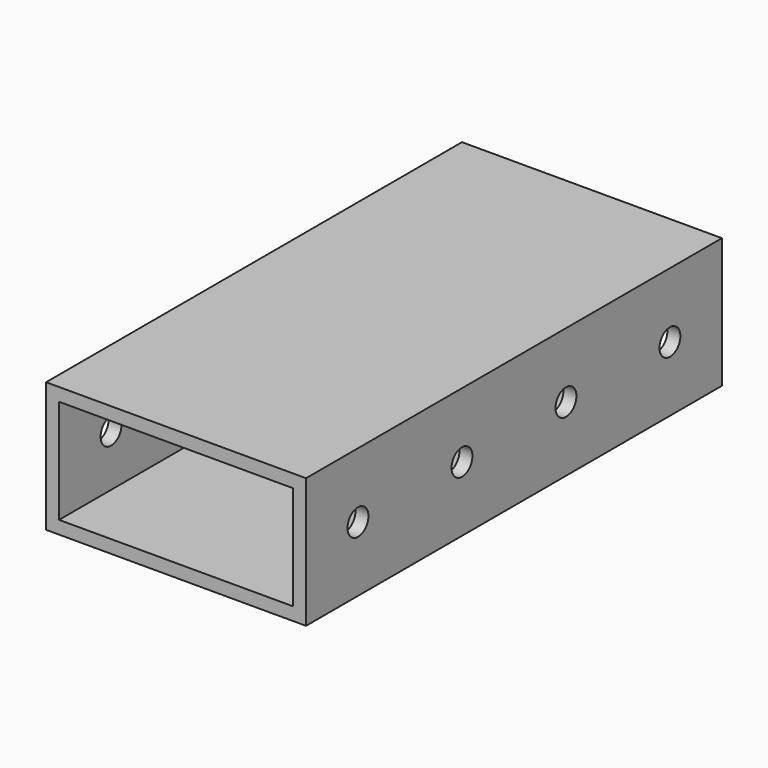
from build123d import *

# Parameters (mm, degrees)
F0_W     = 50.8
F0_H     = 25.4
F0_W_2   = 45.72
F0_H_2   = 20.32
F1_DEPTH = 101.6
F3_DEPTH = 127


with BuildPart() as f1:
    # F0 (on Front) → F1 (new body)
    with BuildSketch(Plane.XZ):
        with Locations((25.4, 12.7)):
            Rectangle(F0_W, F0_H)
        with Locations((25.4, 12.7)):
            Rectangle(F0_W_2, F0_H_2, mode=Mode.SUBTRACT)
    extrude(amount=F1_DEPTH)

    # F2 (on face) → F3 (cut)
    with BuildSketch(Plane.YZ.offset(50.8)):
        with BuildLine():
            Line((-86.7156, 12.7), (-91.0844, 12.7))
            ThreePointArc((-91.0844, 12.7), (-88.9, 10.5156), (-86.7156, 12.7))
        make_face()
        with BuildLine():
            ThreePointArc((-65.6844, 12.7), (-63.5, 10.5156), (-61.3156, 12.7))
            Line((-61.3156, 12.7), (-65.6844, 12.7))
        make_face()
        with BuildLine():
            Line((-65.6844, 12.7), (-61.3156, 12.7))
            ThreePointArc((-61.3156, 12.7), (-63.5, 14.8844), (-65.6844, 12.7))
        make_face()
        with BuildLine():
            ThreePointArc((-40.2844, 12.7), (-38.1, 10.5156), (-35.9156, 12.7))
            Line((-35.9156, 12.7), (-40.2844, 12.7))
        make_face()
        with BuildLine():
            Line((-40.2844, 12.7), (-35.9156, 12.7))
            ThreePointArc((-35.9156, 12.7), (-38.1, 14.8844), (-40.2844, 12.7))
        make_face()
        with BuildLine():
            ThreePointArc((-14.8844, 12.7), (-12.7, 10.5156), (-10.5156, 12.7))
            Line((-10.5156, 12.7), (-14.8844, 12.7))
        make_face()
        with BuildLine():
            Line((-14.8844, 12.7), (-10.5156, 12.7))
            ThreePointArc((-10.5156, 12.7), (-12.7, 14.8844), (-14.8844, 12.7))
        make_face()
        with BuildLine():
            ThreePointArc((-86.7156, 12.7), (-88.9, 14.8844), (-91.0844, 12.7))
            Line((-91.0844, 12.7), (-86.7156, 12.7))
        make_face()
        with BuildLine():
            ThreePointArc((-15.2527, 12.7), (-12.7, 10.1473), (-10.1473, 12.7))
            Line((-10.1473, 12.7), (-10.5156, 12.7))
            ThreePointArc((-10.5156, 12.7), (-12.7, 10.5156), (-14.8844, 12.7))
            Line((-14.8844, 12.7), (-15.2527, 12.7))
        make_face()
        with BuildLine():
            Line((-10.5156, 12.7), (-10.1473, 12.7))
            ThreePointArc((-10.1473, 12.7), (-12.7, 15.2527), (-15.2527, 12.7))
            Line((-15.2527, 12.7), (-14.8844, 12.7))
            ThreePointArc((-14.8844, 12.7), (-12.7, 14.8844), (-10.5156, 12.7))
        make_face()
        with BuildLine():
            ThreePointArc((-40.6527, 12.7), (-38.1, 10.1473), (-35.5473, 12.7))
            Line((-35.5473, 12.7), (-35.9156, 12.7))
            ThreePointArc((-35.9156, 12.7), (-38.1, 10.5156), (-40.2844, 12.7))
            Line((-40.2844, 12.7), (-40.6527, 12.7))
        make_face()
        with BuildLine():
            Line((-35.9156, 12.7), (-35.5473, 12.7))
            ThreePointArc((-35.5473, 12.7), (-38.1, 15.2527), (-40.6527, 12.7))
            Line((-40.6527, 12.7), (-40.2844, 12.7))
            ThreePointArc((-40.2844, 12.7), (-38.1, 14.8844), (-35.9156, 12.7))
        make_face()
        with BuildLine():
            Line((-91.0844, 12.7), (-91.4527, 12.7))
            ThreePointArc((-91.4527, 12.7), (-88.9, 10.1473), (-86.3473, 12.7))
            Line((-86.3473, 12.7), (-86.7156, 12.7))
            ThreePointArc((-86.7156, 12.7), (-88.9, 10.5156), (-91.0844, 12.7))
        make_face()
        with BuildLine():
            ThreePointArc((-86.3473, 12.7), (-88.9, 15.2527), (-91.4527, 12.7))
            Line((-91.4527, 12.7), (-91.0844, 12.7))
            ThreePointArc((-91.0844, 12.7), (-88.9, 14.8844), (-86.7156, 12.7))
            Line((-86.7156, 12.7), (-86.3473, 12.7))
        make_face()
        with BuildLine():
            ThreePointArc((-66.0527, 12.7), (-63.5, 10.1473), (-60.9473, 12.7))
            Line((-60.9473, 12.7), (-61.3156, 12.7))
            ThreePointArc((-61.3156, 12.7), (-63.5, 10.5156), (-65.6844, 12.7))
            Line((-65.6844, 12.7), (-66.0527, 12.7))
        make_face()
        with BuildLine():
            Line((-61.3156, 12.7), (-60.9473, 12.7))
            ThreePointArc((-60.9473, 12.7), (-63.5, 15.2527), (-66.0527, 12.7))
            Line((-66.0527, 12.7), (-65.6844, 12.7))
            ThreePointArc((-65.6844, 12.7), (-63.5, 14.8844), (-61.3156, 12.7))
        make_face()
    extrude(amount=-F3_DEPTH, mode=Mode.SUBTRACT)


solid = f1.part
